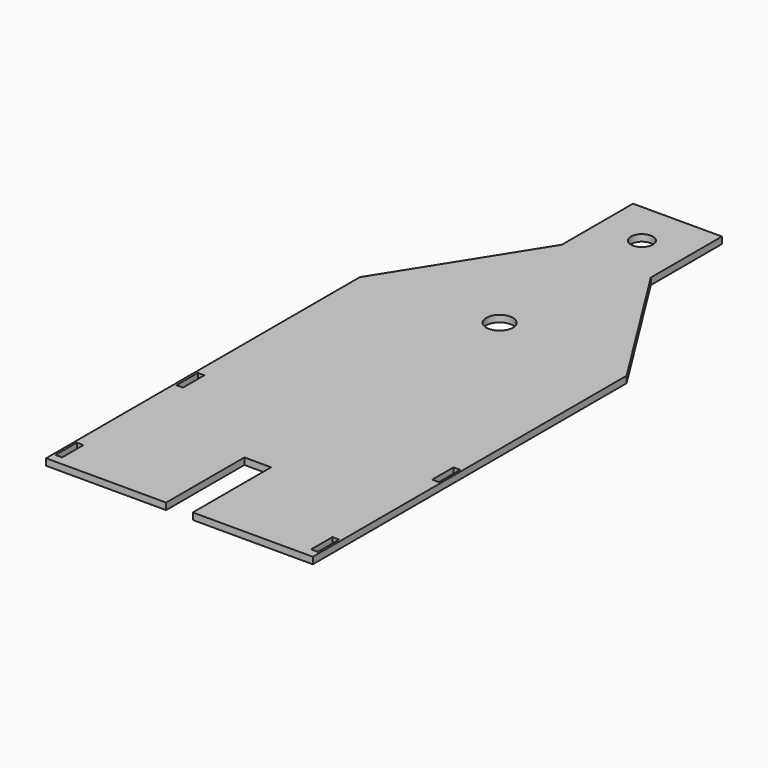
from build123d import *

# Parameters (mm, degrees)
F0_W     = 19.05
F0_H     = 76.200164
F0_W_2   = 18.708376
F0_H_2   = 76.199986
F0_H_3   = 76.199994
F0_H_4   = 76.2
F0_R     = 31.307111
F1_DEPTH = 19.05


with BuildPart() as f1:
    # F0 (on Top) → F1 (new body)
    with BuildSketch(Plane.XY):
        Polygon((-844.687139, 286.409497), (-844.687139, -808.382153), (-844.687139, -833.782168), (-501.787139, -833.782164), (-501.787139, -554.382164), (-425.587139, -554.382163), (-425.587139, -833.782163), (-82.687139, -833.782159), (-82.687139, 286.409497), (-326.205697, 673.554475), (-336.687139, 690.217837), (-336.687139, 944.217847), (-590.687139, 944.217847), (-590.687139, 817.217842), (-590.687139, 690.217837), align=None)
        with Locations((-828.812139, -770.282071)):
            Rectangle(F0_W, F0_H, mode=Mode.SUBTRACT)
        with Locations((-828.641327, -338.48216)):
            Rectangle(F0_W_2, F0_H_2, mode=Mode.SUBTRACT)
        with Locations((-98.562139, -770.282156)):
            Rectangle(F0_W, F0_H_3, mode=Mode.SUBTRACT)
        with Locations((-98.220515, -338.482159)):
            Rectangle(F0_W, F0_H_4, mode=Mode.SUBTRACT)
        with BuildLine():
            ThreePointArc((-494.205809, 286.409497), (-475.704807, 345.372869), (-425.587139, 309.217847))
            ThreePointArc((-425.587139, 309.217847), (-427.532117, 297.200179), (-433.16847, 286.409497))
            ThreePointArc((-433.16847, 286.409497), (-463.687139, 271.117847), (-494.205809, 286.409497))
        make_face(mode=Mode.SUBTRACT)
        with Locations((-463.687139, 817.217842)):
            Circle(F0_R, mode=Mode.SUBTRACT)
        Polygon((-844.687139, 286.409497), (-844.687139, -808.382153), (-844.687139, -833.782168), (-501.787139, -833.782164), (-501.787139, -554.382164), (-425.587139, -554.382163), (-425.587139, -833.782163), (-82.687139, -833.782159), (-82.687139, 286.409497), (-326.205697, 673.554475), (-336.687139, 690.217837), (-336.687139, 944.217847), (-590.687139, 944.217847), (-590.687139, 817.217842), (-590.687139, 690.217837), align=None)
        with Locations((-828.812139, -770.282071)):
            Rectangle(F0_W, F0_H, mode=Mode.SUBTRACT)
        with Locations((-828.641327, -338.48216)):
            Rectangle(F0_W_2, F0_H_2, mode=Mode.SUBTRACT)
        with Locations((-98.562139, -770.282156)):
            Rectangle(F0_W, F0_H_3, mode=Mode.SUBTRACT)
        with Locations((-98.220515, -338.482159)):
            Rectangle(F0_W, F0_H_4, mode=Mode.SUBTRACT)
        with BuildLine():
            ThreePointArc((-494.205809, 286.409497), (-475.704807, 345.372869), (-425.587139, 309.217847))
            ThreePointArc((-425.587139, 309.217847), (-427.532117, 297.200179), (-433.16847, 286.409497))
            ThreePointArc((-433.16847, 286.409497), (-463.687139, 271.117847), (-494.205809, 286.409497))
        make_face(mode=Mode.SUBTRACT)
        with Locations((-463.687139, 817.217842)):
            Circle(F0_R, mode=Mode.SUBTRACT)
    extrude(amount=F1_DEPTH)


solid = f1.part
